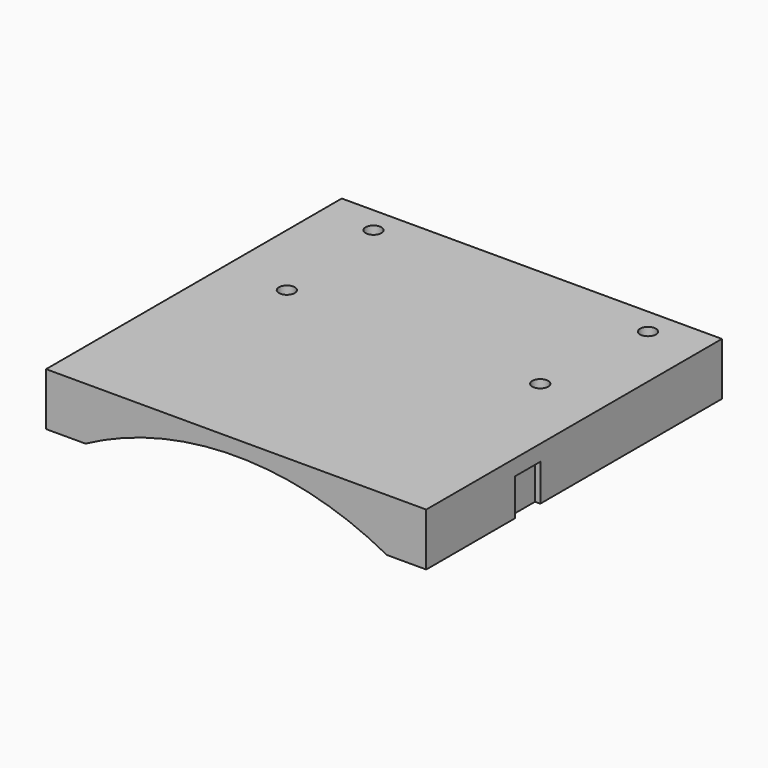
from build123d import *

# Parameters (mm, degrees)
BOX241_W           = 6
BOX241_H           = 6
BOX241_DEPTH       = 64
BOX240_W           = 6
BOX240_H           = 6
BOX240_DEPTH       = 64
CYLINDER_R         = 60.2
CYLINDER_DEPTH     = 52
CYLINDER1233_R     = 1.5
CYLINDER1233_DEPTH = 32
CYLINDER1232_R     = 1.5
CYLINDER1232_DEPTH = 32
CYLINDER1239_R     = 1.5
CYLINDER1239_DEPTH = 100
CYLINDER1238_R     = 1.5
CYLINDER1238_DEPTH = 100
CYLINDER1245_R     = 3
CYLINDER1245_DEPTH = 3
CYLINDER1244_R     = 3
CYLINDER1244_DEPTH = 3
CYLINDER544_R      = 1.5
CYLINDER544_DEPTH  = 50
CYLINDER550_R      = 1.5
CYLINDER550_DEPTH  = 50
CYLINDER556_R      = 1.5
CYLINDER556_DEPTH  = 50
CYLINDER549_R      = 1.5
CYLINDER549_DEPTH  = 50
CYLINDER535_R      = 1.5
CYLINDER535_DEPTH  = 100
CYLINDER538_R      = 1.5
CYLINDER538_DEPTH  = 100
CYLINDER583_R      = 1.5
CYLINDER583_DEPTH  = 100
CYLINDER584_R      = 1.5
CYLINDER584_DEPTH  = 100
BOX142_W           = 72
BOX142_H           = 70
BOX142_DEPTH       = 10


with BuildPart() as krychle241:
    # Box241 → Box241 (new body)
    with BuildSketch(Plane(origin=(87, -3, -93), x_dir=(1, 0, 0), z_dir=(0, 0, 1))):
        with Locations((3, 3)):
            Rectangle(BOX241_W, BOX241_H)
    extrude(amount=BOX241_DEPTH)


with BuildPart() as compound653:
    # Box240 → Box240 (new body)
    with BuildSketch(Plane(origin=(11, -3, -93), x_dir=(1, 0, 0), z_dir=(0, 0, 1))):
        with Locations((3, 3)):
            Rectangle(BOX240_W, BOX240_H)
    extrude(amount=BOX240_DEPTH)

    # Compound653: union Krychle241
    add(krychle241.part)


with BuildPart() as compound653_1:
    # Compound653 placement: moved
    add(compound653.part.moved(Location((-52, 0, 36))))


with BuildPart() as obj1:
    # Cylinder → Cylinder (new body)
    with BuildSketch(Plane(origin=(0, 13, -53), x_dir=(1, 0, 0), z_dir=(0, -1, 0))):
        Circle(CYLINDER_R)
    extrude(amount=CYLINDER_DEPTH)


with BuildPart() as obj2:
    # Cylinder1233 → Cylinder1233 (new body)
    with BuildSketch(Plane(origin=(78, 41, -42), x_dir=(1, 0, 0), z_dir=(0, 0, 1))):
        Circle(CYLINDER1233_R)
    extrude(amount=CYLINDER1233_DEPTH)


with BuildPart() as compound620:
    # Cylinder1232 → Cylinder1232 (new body)
    with BuildSketch(Plane(origin=(26, 41, -42), x_dir=(1, 0, 0), z_dir=(0, 0, 1))):
        Circle(CYLINDER1232_R)
    extrude(amount=CYLINDER1232_DEPTH)

    # Compound620: union obj2
    add(obj2.part)


with BuildPart() as compound620_1:
    # Compound620 placement: moved
    add(compound620.part.moved(Location((-52, 0, 36))))


with BuildPart() as obj3:
    # Cylinder1239 → Cylinder1239 (new body)
    with BuildSketch(Plane(origin=(14, 0, -60), x_dir=(1, 0, 0), z_dir=(0, 0, 1))):
        Circle(CYLINDER1239_R)
    extrude(amount=CYLINDER1239_DEPTH)


with BuildPart() as compound630:
    # Cylinder1238 → Cylinder1238 (new body)
    with BuildSketch(Plane(origin=(90, 0, -60), x_dir=(1, 0, 0), z_dir=(0, 0, 1))):
        Circle(CYLINDER1238_R)
    extrude(amount=CYLINDER1238_DEPTH)

    # Compound625: union obj3
    add(obj3.part)


with BuildPart() as compound630_1:
    # Compound625 placement: moved
    add(compound630.part.moved(Location((-52, 0, 0))))

    # Compound630: union Compound620
    add(compound620_1.part)


with BuildPart() as obj4:
    # Cylinder1245 → Cylinder1245 (new body)
    with BuildSketch(Plane(origin=(78, 41, -42), x_dir=(1, 0, 0), z_dir=(0, 0, 1))):
        Circle(CYLINDER1245_R)
    extrude(amount=CYLINDER1245_DEPTH)


with BuildPart() as compound634:
    # Cylinder1244 → Cylinder1244 (new body)
    with BuildSketch(Plane(origin=(26, 41, -42), x_dir=(1, 0, 0), z_dir=(0, 0, 1))):
        Circle(CYLINDER1244_R)
    extrude(amount=CYLINDER1244_DEPTH)

    # Compound634: union obj4
    add(obj4.part)


with BuildPart() as compound634_1:
    # Compound634 placement: moved
    add(compound634.part.moved(Location((-52, 0, 42))))


with BuildPart() as obj5:
    # Cylinder544 → Cylinder544 (new body)
    with BuildSketch(Plane(origin=(-51, 6, 0), x_dir=(1, 0, 0), z_dir=(0, 0, 1))):
        Circle(CYLINDER544_R)
    extrude(amount=CYLINDER544_DEPTH)


with BuildPart() as obj6:
    # Cylinder550 → Cylinder550 (new body)
    with BuildSketch(Plane(origin=(-24, 18, 0), x_dir=(1, 0, 0), z_dir=(0, 0, 1))):
        Circle(CYLINDER550_R)
    extrude(amount=CYLINDER550_DEPTH)


with BuildPart() as obj7:
    # Cylinder556 → Cylinder556 (new body)
    with BuildSketch(Plane(origin=(24, 18, 0), x_dir=(1, 0, 0), z_dir=(0, 0, 1))):
        Circle(CYLINDER556_R)
    extrude(amount=CYLINDER556_DEPTH)


with BuildPart() as compound324:
    # Cylinder549 → Cylinder549 (new body)
    with BuildSketch(Plane(origin=(51, 6, 0), x_dir=(1, 0, 0), z_dir=(0, 0, 1))):
        Circle(CYLINDER549_R)
    extrude(amount=CYLINDER549_DEPTH)

    # Compound324: union obj5, obj6, obj7
    add(obj5.part)
    add(obj6.part)
    add(obj7.part)


with BuildPart() as obj8:
    # Cylinder535 → Cylinder535 (new body)
    with BuildSketch(Plane(origin=(51, -12, 0), x_dir=(1, 0, 0), z_dir=(0, 0, 1))):
        Circle(CYLINDER535_R)
    extrude(amount=CYLINDER535_DEPTH)


with BuildPart() as compound323:
    # Cylinder538 → Cylinder538 (new body)
    with BuildSketch(Plane(origin=(-51, -12, 0), x_dir=(1, 0, 0), z_dir=(0, 0, 1))):
        Circle(CYLINDER538_R)
    extrude(amount=CYLINDER538_DEPTH)

    # Compound323: union obj8
    add(obj8.part)


with BuildPart() as obj9:
    # Cylinder583 → Cylinder583 (new body)
    with BuildSketch(Plane(origin=(39, -21, 0), x_dir=(1, 0, 0), z_dir=(0, 0, 1))):
        Circle(CYLINDER583_R)
    extrude(amount=CYLINDER583_DEPTH)


with BuildPart() as compound628:
    # Cylinder584 → Cylinder584 (new body)
    with BuildSketch(Plane(origin=(-39, -21, 0), x_dir=(1, 0, 0), z_dir=(0, 0, 1))):
        Circle(CYLINDER584_R)
    extrude(amount=CYLINDER584_DEPTH)

    # Compound339: union obj9
    add(obj9.part)

    # Compound628: union Compound324, Compound323
    add(compound324.part)
    add(compound323.part)


with BuildPart() as compound628_1:
    # Compound628 placement: moved
    add(compound628.part.moved(Location((0, 0, -10))))


with BuildPart() as cut209:
    # Box142 → Box142 (new body)
    with BuildSketch(Plane(origin=(-36, -24, 0), x_dir=(1, 0, 0), z_dir=(0, 0, 1))):
        with Locations((36, 35)):
            Rectangle(BOX142_W, BOX142_H)
    extrude(amount=BOX142_DEPTH)

    # Cut201: cut Compound628
    add(compound628_1.part, mode=Mode.SUBTRACT)

    # Cut202: cut Compound634
    add(compound634_1.part, mode=Mode.SUBTRACT)

    # Cut203: cut Compound630
    add(compound630_1.part, mode=Mode.SUBTRACT)

    # Cut208: cut obj1
    add(obj1.part, mode=Mode.SUBTRACT)

    # Cut209: cut Compound653
    add(compound653_1.part, mode=Mode.SUBTRACT)


solid = cut209.part
